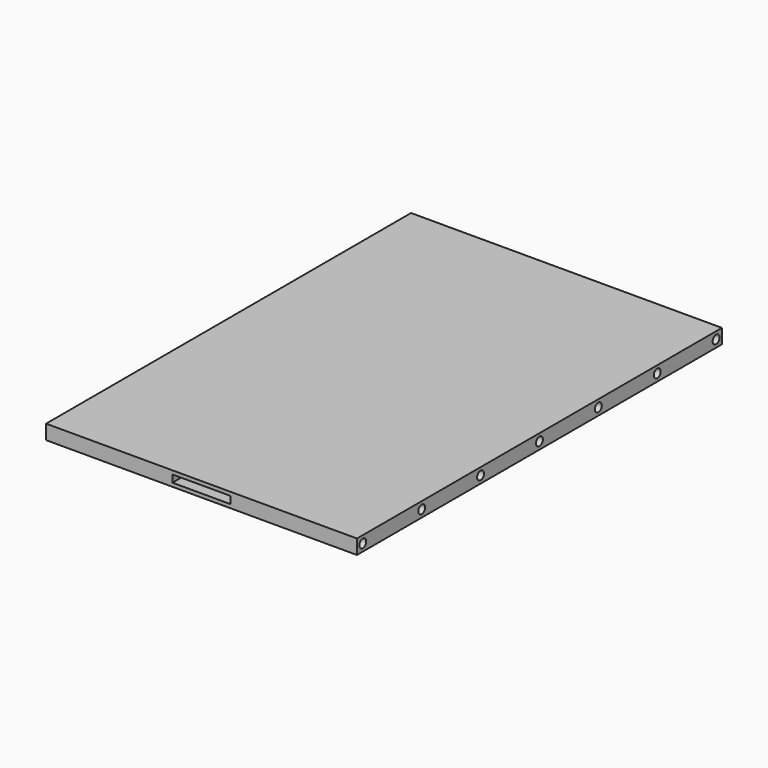
from build123d import *

# Parameters (mm, degrees)
F0_W     = 107
F0_H     = 157
F1_DEPTH = 5
F2_R     = 1.475
F3_DEPTH = 5
F4_R     = 1.475
F5_DEPTH = 5
F6_W     = 20
F6_H     = 2.5
F7_DEPTH = 20


with BuildPart() as f1:
    # F0 (on Top) → F1 (new body)
    with BuildSketch(Plane.XY):
        Rectangle(F0_W, F0_H)
    extrude(amount=F1_DEPTH)

    # F2 (on face) → F3 (cut)
    with BuildSketch(Plane.YZ.offset(53.5)):
        with Locations((-76, 2.5)):
            Circle(F2_R)
        with Locations((-50.6667, 2.5)):
            Circle(F2_R)
        with Locations((-25.3334, 2.5)):
            Circle(F2_R)
        with Locations((-0.0001, 2.5)):
            Circle(F2_R)
        with Locations((25.3332, 2.5)):
            Circle(F2_R)
        with Locations((50.6665, 2.5)):
            Circle(F2_R)
        with Locations((75.9998, 2.5)):
            Circle(F2_R)
    extrude(amount=-F3_DEPTH, mode=Mode.SUBTRACT)

    # F4 (on face) → F5 (cut)
    with BuildSketch(Plane(origin=(-53.5, 0, 0), x_dir=(0, -1, 0), z_dir=(-1, 0, 0))):
        with Locations((-76, 2.5)):
            Circle(F4_R)
        with Locations((-50.6667, 2.5)):
            Circle(F4_R)
        with Locations((-25.3334, 2.5)):
            Circle(F4_R)
        with Locations((-0.0001, 2.5)):
            Circle(F4_R)
        with Locations((25.3332, 2.5)):
            Circle(F4_R)
        with Locations((50.6665, 2.5)):
            Circle(F4_R)
        with Locations((75.9998, 2.5)):
            Circle(F4_R)
    extrude(amount=-F5_DEPTH, mode=Mode.SUBTRACT)

    # F6 (on face) → F7 (cut)
    with BuildSketch(Plane.XZ.offset(78.5)):
        with Locations((0, 2.5)):
            Rectangle(F6_W, F6_H)
    extrude(amount=-F7_DEPTH, mode=Mode.SUBTRACT)


solid = f1.part
